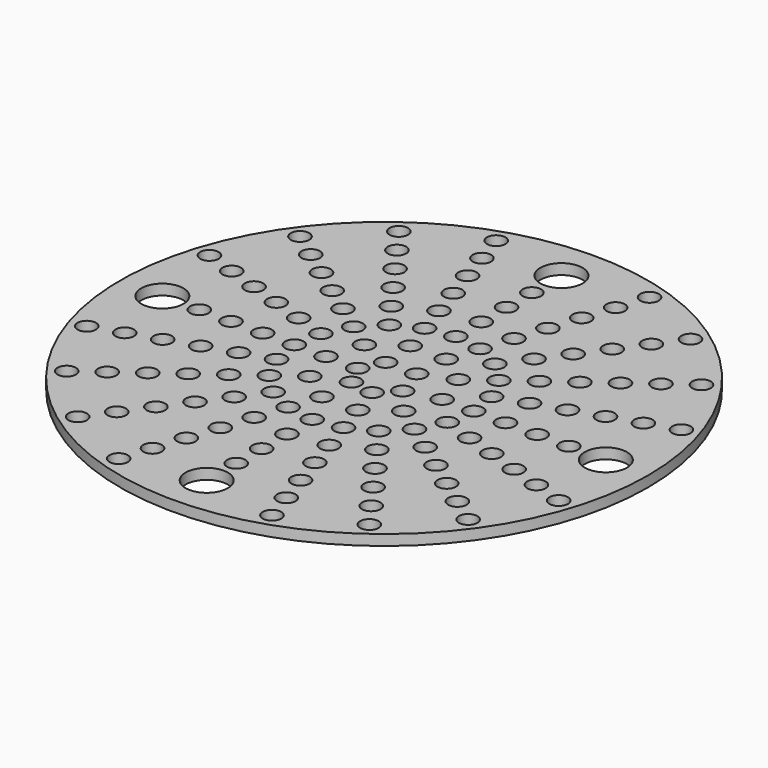
from build123d import *

# Parameters (mm, degrees)
F0_R     = 50
F0_R_2   = 1.75
F0_R_3   = 4
F1_DEPTH = 2


with BuildPart() as f1:
    # F0 (on Top) → F1 (new body)
    with BuildSketch(Plane.XY):
        Circle(F0_R)
        with Locations((-27.625907, -38.023799)):
            Circle(F0_R_2, mode=Mode.SUBTRACT)
        with Locations((-38.023799, -27.625907)):
            Circle(F0_R_2, mode=Mode.SUBTRACT)
        with Locations((-14.523799, -44.699656)):
            Circle(F0_R_2, mode=Mode.SUBTRACT)
        with Locations((-12.669697, -38.993317)):
            Circle(F0_R_2, mode=Mode.SUBTRACT)
        with Locations((-24.099195, -33.169697)):
            Circle(F0_R_2, mode=Mode.SUBTRACT)
        with Locations((-20.572484, -28.315595)):
            Circle(F0_R_2, mode=Mode.SUBTRACT)
        with Locations((-10.815595, -33.286978)):
            Circle(F0_R_2, mode=Mode.SUBTRACT)
        with Locations((-8.961493, -27.580639)):
            Circle(F0_R_2, mode=Mode.SUBTRACT)
        with Locations((-44.699656, -14.523799)):
            Circle(F0_R_2, mode=Mode.SUBTRACT)
        with Locations((-38.993317, -12.669697)):
            Circle(F0_R_2, mode=Mode.SUBTRACT)
        with Locations((-33.169697, -24.099195)):
            Circle(F0_R_2, mode=Mode.SUBTRACT)
        with Locations((-28.315595, -20.572484)):
            Circle(F0_R_2, mode=Mode.SUBTRACT)
        with Locations((-33.286978, -10.815595)):
            Circle(F0_R_2, mode=Mode.SUBTRACT)
        with Locations((-27.580639, -8.961493)):
            Circle(F0_R_2, mode=Mode.SUBTRACT)
        with Locations((-17.045772, -23.461493)):
            Circle(F0_R_2, mode=Mode.SUBTRACT)
        with Locations((-23.461493, -17.045772)):
            Circle(F0_R_2, mode=Mode.SUBTRACT)
        with Locations((-13.519061, -18.607391)):
            Circle(F0_R_2, mode=Mode.SUBTRACT)
        with Locations((-18.607391, -13.519061)):
            Circle(F0_R_2, mode=Mode.SUBTRACT)
        with Locations((-7.107391, -21.8743)):
            Circle(F0_R_2, mode=Mode.SUBTRACT)
        with Locations((-9.992349, -13.753289)):
            Circle(F0_R_2, mode=Mode.SUBTRACT)
        with Locations((-5.253289, -16.167961)):
            Circle(F0_R_2, mode=Mode.SUBTRACT)
        with Locations((-21.8743, -7.107391)):
            Circle(F0_R_2, mode=Mode.SUBTRACT)
        with Locations((-13.753289, -9.992349)):
            Circle(F0_R_2, mode=Mode.SUBTRACT)
        with Locations((-16.167961, -5.253289)):
            Circle(F0_R_2, mode=Mode.SUBTRACT)
        with Locations((-8.899187, -6.465638)):
            Circle(F0_R_2, mode=Mode.SUBTRACT)
        with Locations((-3.399187, -10.461622)):
            Circle(F0_R_2, mode=Mode.SUBTRACT)
        with Locations((-2.938926, -4.045085)):
            Circle(F0_R_2, mode=Mode.SUBTRACT)
        with Locations((0, -42)):
            Circle(F0_R_3, mode=Mode.SUBTRACT)
        with Locations((14.523799, -44.699656)):
            Circle(F0_R_2, mode=Mode.SUBTRACT)
        with Locations((12.669697, -38.993317)):
            Circle(F0_R_2, mode=Mode.SUBTRACT)
        with Locations((0, -35)):
            Circle(F0_R_2, mode=Mode.SUBTRACT)
        with Locations((10.815595, -33.286978)):
            Circle(F0_R_2, mode=Mode.SUBTRACT)
        with Locations((0, -29)):
            Circle(F0_R_2, mode=Mode.SUBTRACT)
        with Locations((8.961493, -27.580639)):
            Circle(F0_R_2, mode=Mode.SUBTRACT)
        with Locations((24.099195, -33.169697)):
            Circle(F0_R_2, mode=Mode.SUBTRACT)
        with Locations((20.572484, -28.315595)):
            Circle(F0_R_2, mode=Mode.SUBTRACT)
        with Locations((27.625907, -38.023799)):
            Circle(F0_R_2, mode=Mode.SUBTRACT)
        with Locations((38.023799, -27.625907)):
            Circle(F0_R_2, mode=Mode.SUBTRACT)
        with Locations((0, -23)):
            Circle(F0_R_2, mode=Mode.SUBTRACT)
        with Locations((7.107391, -21.8743)):
            Circle(F0_R_2, mode=Mode.SUBTRACT)
        with Locations((0, -17)):
            Circle(F0_R_2, mode=Mode.SUBTRACT)
        with Locations((5.253289, -16.167961)):
            Circle(F0_R_2, mode=Mode.SUBTRACT)
        with Locations((9.992349, -13.753289)):
            Circle(F0_R_2, mode=Mode.SUBTRACT)
        with Locations((17.045772, -23.461493)):
            Circle(F0_R_2, mode=Mode.SUBTRACT)
        with Locations((13.519061, -18.607391)):
            Circle(F0_R_2, mode=Mode.SUBTRACT)
        with Locations((18.607391, -13.519061)):
            Circle(F0_R_2, mode=Mode.SUBTRACT)
        with Locations((23.461493, -17.045772)):
            Circle(F0_R_2, mode=Mode.SUBTRACT)
        with Locations((3.399187, -10.461622)):
            Circle(F0_R_2, mode=Mode.SUBTRACT)
        with Locations((8.899187, -6.465638)):
            Circle(F0_R_2, mode=Mode.SUBTRACT)
        with Locations((1.545085, -4.755283)):
            Circle(F0_R_2, mode=Mode.SUBTRACT)
        with Locations((4.755283, -1.545085)):
            Circle(F0_R_2, mode=Mode.SUBTRACT)
        with Locations((13.753289, -9.992349)):
            Circle(F0_R_2, mode=Mode.SUBTRACT)
        with Locations((21.8743, -7.107391)):
            Circle(F0_R_2, mode=Mode.SUBTRACT)
        with Locations((16.167961, -5.253289)):
            Circle(F0_R_2, mode=Mode.SUBTRACT)
        with Locations((28.315595, -20.572484)):
            Circle(F0_R_2, mode=Mode.SUBTRACT)
        with Locations((33.169697, -24.099195)):
            Circle(F0_R_2, mode=Mode.SUBTRACT)
        with Locations((38.993317, -12.669697)):
            Circle(F0_R_2, mode=Mode.SUBTRACT)
        with Locations((44.699656, -14.523799)):
            Circle(F0_R_2, mode=Mode.SUBTRACT)
        with Locations((27.580639, -8.961493)):
            Circle(F0_R_2, mode=Mode.SUBTRACT)
        with Locations((33.286978, -10.815595)):
            Circle(F0_R_2, mode=Mode.SUBTRACT)
        with Locations((-42, 0)):
            Circle(F0_R_3, mode=Mode.SUBTRACT)
        with Locations((-35, 0)):
            Circle(F0_R_2, mode=Mode.SUBTRACT)
        with Locations((-29, 0)):
            Circle(F0_R_2, mode=Mode.SUBTRACT)
        with Locations((-33.286978, 10.815595)):
            Circle(F0_R_2, mode=Mode.SUBTRACT)
        with Locations((-27.580639, 8.961493)):
            Circle(F0_R_2, mode=Mode.SUBTRACT)
        with Locations((-44.699656, 14.523799)):
            Circle(F0_R_2, mode=Mode.SUBTRACT)
        with Locations((-38.993317, 12.669697)):
            Circle(F0_R_2, mode=Mode.SUBTRACT)
        with Locations((-33.169697, 24.099195)):
            Circle(F0_R_2, mode=Mode.SUBTRACT)
        with Locations((-28.315595, 20.572484)):
            Circle(F0_R_2, mode=Mode.SUBTRACT)
        with Locations((-23, 0)):
            Circle(F0_R_2, mode=Mode.SUBTRACT)
        with Locations((-17, 0)):
            Circle(F0_R_2, mode=Mode.SUBTRACT)
        with Locations((-16.167961, 5.253289)):
            Circle(F0_R_2, mode=Mode.SUBTRACT)
        with Locations((-21.8743, 7.107391)):
            Circle(F0_R_2, mode=Mode.SUBTRACT)
        with Locations((-13.753289, 9.992349)):
            Circle(F0_R_2, mode=Mode.SUBTRACT)
        with Locations((-11, 0)):
            Circle(F0_R_2, mode=Mode.SUBTRACT)
        with Locations((-5, 0)):
            Circle(F0_R_2, mode=Mode.SUBTRACT)
        with Locations((-2.938926, 4.045085)):
            Circle(F0_R_2, mode=Mode.SUBTRACT)
        with Locations((-8.899187, 6.465638)):
            Circle(F0_R_2, mode=Mode.SUBTRACT)
        with Locations((-3.399187, 10.461622)):
            Circle(F0_R_2, mode=Mode.SUBTRACT)
        with Locations((-23.461493, 17.045772)):
            Circle(F0_R_2, mode=Mode.SUBTRACT)
        with Locations((-18.607391, 13.519061)):
            Circle(F0_R_2, mode=Mode.SUBTRACT)
        with Locations((-13.519061, 18.607391)):
            Circle(F0_R_2, mode=Mode.SUBTRACT)
        with Locations((-17.045772, 23.461493)):
            Circle(F0_R_2, mode=Mode.SUBTRACT)
        with Locations((-9.992349, 13.753289)):
            Circle(F0_R_2, mode=Mode.SUBTRACT)
        with Locations((-5.253289, 16.167961)):
            Circle(F0_R_2, mode=Mode.SUBTRACT)
        with Locations((-7.107391, 21.8743)):
            Circle(F0_R_2, mode=Mode.SUBTRACT)
        with Locations((-38.023799, 27.625907)):
            Circle(F0_R_2, mode=Mode.SUBTRACT)
        with Locations((-27.625907, 38.023799)):
            Circle(F0_R_2, mode=Mode.SUBTRACT)
        with Locations((-20.572484, 28.315595)):
            Circle(F0_R_2, mode=Mode.SUBTRACT)
        with Locations((-24.099195, 33.169697)):
            Circle(F0_R_2, mode=Mode.SUBTRACT)
        with Locations((-8.961493, 27.580639)):
            Circle(F0_R_2, mode=Mode.SUBTRACT)
        with Locations((-10.815595, 33.286978)):
            Circle(F0_R_2, mode=Mode.SUBTRACT)
        with Locations((-12.669697, 38.993317)):
            Circle(F0_R_2, mode=Mode.SUBTRACT)
        with Locations((-14.523799, 44.699656)):
            Circle(F0_R_2, mode=Mode.SUBTRACT)
        with Locations((2.938926, 4.045085)):
            Circle(F0_R_2, mode=Mode.SUBTRACT)
        with Locations((11, 0)):
            Circle(F0_R_2, mode=Mode.SUBTRACT)
        with Locations((3.399187, 10.461622)):
            Circle(F0_R_2, mode=Mode.SUBTRACT)
        with Locations((8.899187, 6.465638)):
            Circle(F0_R_2, mode=Mode.SUBTRACT)
        with Locations((17, 0)):
            Circle(F0_R_2, mode=Mode.SUBTRACT)
        with Locations((16.167961, 5.253289)):
            Circle(F0_R_2, mode=Mode.SUBTRACT)
        with Locations((23, 0)):
            Circle(F0_R_2, mode=Mode.SUBTRACT)
        with Locations((13.753289, 9.992349)):
            Circle(F0_R_2, mode=Mode.SUBTRACT)
        with Locations((21.8743, 7.107391)):
            Circle(F0_R_2, mode=Mode.SUBTRACT)
        with Locations((0, 17)):
            Circle(F0_R_2, mode=Mode.SUBTRACT)
        with Locations((5.253289, 16.167961)):
            Circle(F0_R_2, mode=Mode.SUBTRACT)
        with Locations((9.992349, 13.753289)):
            Circle(F0_R_2, mode=Mode.SUBTRACT)
        with Locations((0, 23)):
            Circle(F0_R_2, mode=Mode.SUBTRACT)
        with Locations((7.107391, 21.8743)):
            Circle(F0_R_2, mode=Mode.SUBTRACT)
        with Locations((18.607391, 13.519061)):
            Circle(F0_R_2, mode=Mode.SUBTRACT)
        with Locations((13.519061, 18.607391)):
            Circle(F0_R_2, mode=Mode.SUBTRACT)
        with Locations((23.461493, 17.045772)):
            Circle(F0_R_2, mode=Mode.SUBTRACT)
        with Locations((17.045772, 23.461493)):
            Circle(F0_R_2, mode=Mode.SUBTRACT)
        with Locations((29, 0)):
            Circle(F0_R_2, mode=Mode.SUBTRACT)
        with Locations((35, 0)):
            Circle(F0_R_2, mode=Mode.SUBTRACT)
        with Locations((27.580639, 8.961493)):
            Circle(F0_R_2, mode=Mode.SUBTRACT)
        with Locations((33.286978, 10.815595)):
            Circle(F0_R_2, mode=Mode.SUBTRACT)
        with Locations((42, 0)):
            Circle(F0_R_3, mode=Mode.SUBTRACT)
        with Locations((28.315595, 20.572484)):
            Circle(F0_R_2, mode=Mode.SUBTRACT)
        with Locations((33.169697, 24.099195)):
            Circle(F0_R_2, mode=Mode.SUBTRACT)
        with Locations((38.993317, 12.669697)):
            Circle(F0_R_2, mode=Mode.SUBTRACT)
        with Locations((44.699656, 14.523799)):
            Circle(F0_R_2, mode=Mode.SUBTRACT)
        with Locations((0, 29)):
            Circle(F0_R_2, mode=Mode.SUBTRACT)
        with Locations((8.961493, 27.580639)):
            Circle(F0_R_2, mode=Mode.SUBTRACT)
        with Locations((0, 35)):
            Circle(F0_R_2, mode=Mode.SUBTRACT)
        with Locations((10.815595, 33.286978)):
            Circle(F0_R_2, mode=Mode.SUBTRACT)
        with Locations((20.572484, 28.315595)):
            Circle(F0_R_2, mode=Mode.SUBTRACT)
        with Locations((24.099195, 33.169697)):
            Circle(F0_R_2, mode=Mode.SUBTRACT)
        with Locations((0, 42)):
            Circle(F0_R_3, mode=Mode.SUBTRACT)
        with Locations((12.669697, 38.993317)):
            Circle(F0_R_2, mode=Mode.SUBTRACT)
        with Locations((14.523799, 44.699656)):
            Circle(F0_R_2, mode=Mode.SUBTRACT)
        with Locations((38.023799, 27.625907)):
            Circle(F0_R_2, mode=Mode.SUBTRACT)
        with Locations((27.625907, 38.023799)):
            Circle(F0_R_2, mode=Mode.SUBTRACT)
    extrude(amount=F1_DEPTH)


solid = f1.part
